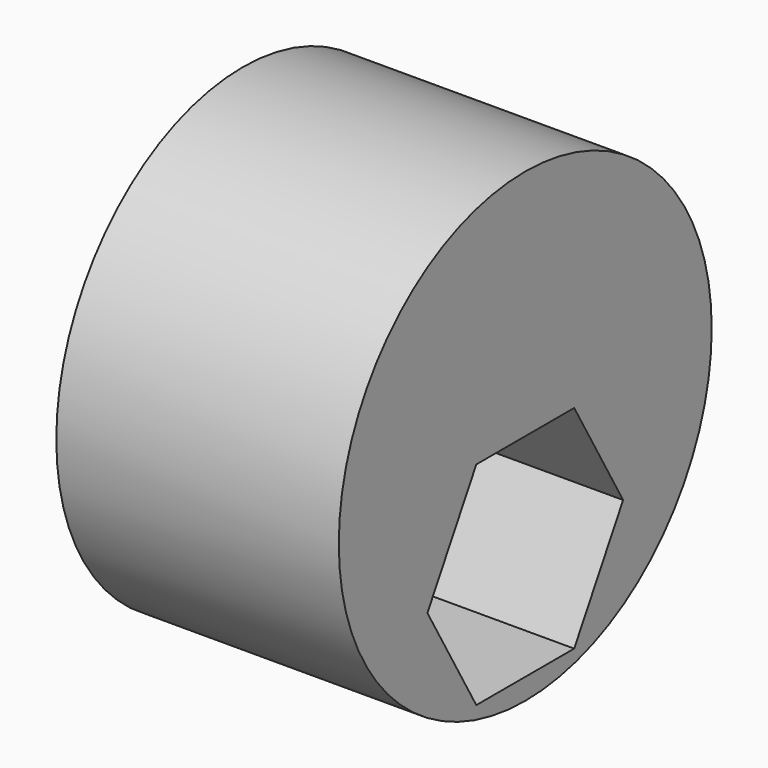
from build123d import *

# Parameters (mm, degrees)
F0_R     = 20.955
F1_DEPTH = 25.4
F3_DEPTH = 25.4


with BuildPart() as f1:
    # F0 (on Right) → F1 (new body)
    with BuildSketch(Plane.YZ):
        Circle(F0_R)
    extrude(amount=F1_DEPTH)

    # F2 (on face) → F3 (cut)
    with BuildSketch(Plane.YZ.offset(25.4)):
        Polygon((5.499261, 0), (-5.499261, 0), (-10.998523, -9.525), (-5.499261, -19.05), (5.499261, -19.05), (10.998523, -9.525), align=None)
    extrude(amount=-F3_DEPTH, mode=Mode.SUBTRACT)


solid = f1.part
